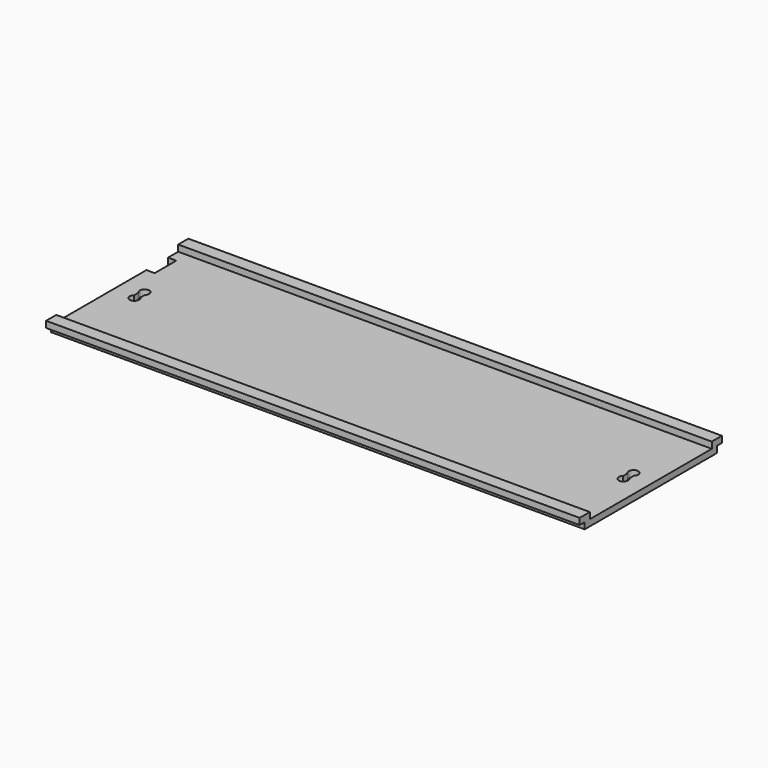
from build123d import *

# Parameters (mm, degrees)
F0_W     = 168
F0_H     = 52
F1_DEPTH = 2
F2_W     = 168
F2_H     = 2
F3_DEPTH = 2
F5_DEPTH = 25
F6_W     = 2.6
F6_H     = 8.5
F7_DEPTH = 25


with BuildPart() as f1:
    # F0 (on Top) → F1 (new body)
    with BuildSketch(Plane.XY):
        Rectangle(F0_W, F0_H)
    extrude(amount=F1_DEPTH)

    # F2 (on face) → F3 (join)
    with BuildSketch(Plane.XY.offset(2)):
        with Locations((0, -27)):
            Rectangle(F2_W, F2_H)
        with Locations((0, -25)):
            Rectangle(F2_W, F2_H)
        with Locations((0, 25)):
            Rectangle(F2_W, F2_H)
        with Locations((0, 27)):
            Rectangle(F2_W, F2_H)
    extrude(amount=F3_DEPTH)

    # F4 (on face) → F5 (cut)
    with BuildSketch(Plane.XY.offset(2)):
        with BuildLine():
            ThreePointArc((78.5, -2), (78.369306, -1.387628), (78, -0.881966))
            ThreePointArc((78, -0.881966), (77, -0.5), (76, -0.881966))
            ThreePointArc((76, -0.881966), (76.387628, -3.369306), (78.5, -2))
        make_face()
        with BuildLine():
            Line((78, -0.881966), (78, 0.881966))
            ThreePointArc((78, 0.881966), (77, 0.5), (76, 0.881966))
            Line((76, 0.881966), (76, -0.881966))
            ThreePointArc((76, -0.881966), (77, -0.5), (78, -0.881966))
        make_face()
        with BuildLine():
            ThreePointArc((76, 0.881966), (77, 0.5), (78, 0.881966))
            ThreePointArc((78, 0.881966), (78.369306, 1.387628), (78.5, 2))
            ThreePointArc((78.5, 2), (76.387628, 3.369306), (76, 0.881966))
        make_face()
        with BuildLine():
            ThreePointArc((-78, -0.881966), (-77.612372, -3.369306), (-75.5, -2))
            ThreePointArc((-75.5, -2), (-75.630694, -1.387628), (-76, -0.881966))
            ThreePointArc((-76, -0.881966), (-77, -0.5), (-78, -0.881966))
        make_face()
        with BuildLine():
            ThreePointArc((-78, -0.881966), (-77, -0.5), (-76, -0.881966))
            Line((-76, -0.881966), (-76, 0.881966))
            ThreePointArc((-76, 0.881966), (-77, 0.5), (-78, 0.881966))
            Line((-78, 0.881966), (-78, -0.881966))
        make_face()
        with BuildLine():
            ThreePointArc((-78, 0.881966), (-77, 0.5), (-76, 0.881966))
            ThreePointArc((-76, 0.881966), (-75.630694, 1.387628), (-75.5, 2))
            ThreePointArc((-75.5, 2), (-77.612372, 3.369306), (-78, 0.881966))
        make_face()
    extrude(amount=-F5_DEPTH, mode=Mode.SUBTRACT)

    # F6 (on face) → F7 (cut)
    with BuildSketch(Plane.XY.offset(2)):
        with Locations((-82.7, 15.75)):
            Rectangle(F6_W, F6_H)
    extrude(amount=-F7_DEPTH, mode=Mode.SUBTRACT)


solid = f1.part
